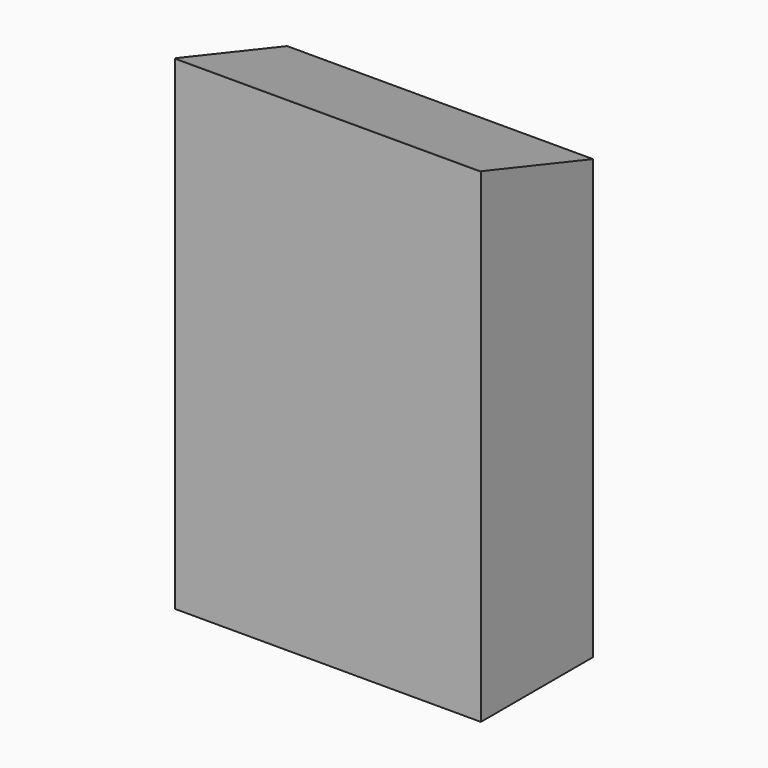
from build123d import *

# Parameters (mm, degrees)
F0_W     = 1200
F0_H     = 1900
F0_W_2   = 350
F0_H_2   = 1675
F0_H_3   = 1673.7432479858
F1_DEPTH = 550
F2_SIZE2 = 545
F2_SIZE  = 180
F3_START = 547
F3_DEPTH = 3


with BuildPart() as f1:
    # F0 (on Front) → F1 (new body)
    with BuildSketch(Plane.XZ):
        with Locations((-575, 925)):
            Rectangle(F0_W, F0_H)
        with Locations((-975, 837.5)):
            Rectangle(F0_W_2, F0_H_2, mode=Mode.SUBTRACT)
        with Locations((-575, 837.5)):
            Rectangle(F0_W_2, F0_H_2, mode=Mode.SUBTRACT)
        with Locations((-175, 836.8716239929)):
            Rectangle(F0_W_2, F0_H_3, mode=Mode.SUBTRACT)
    extrude(amount=F1_DEPTH)

    # F2
    f2_edges = [f1.edges().sort_by_distance(p)[0] for p in [
        (-575, 0, 1875),
    ]]
    f2_side = f1.faces().sort_by_distance((-575, 0, 1852.527795))[0]
    chamfer(f2_edges, length=F2_SIZE, length2=F2_SIZE2, reference=f2_side)

    # F0 (on Front) → F3 (join)
    with BuildSketch(Plane.XZ.offset(F3_START)):
        with Locations((-575, 925)):
            Rectangle(F0_W, F0_H)
        with Locations((-975, 837.5)):
            Rectangle(F0_W_2, F0_H_2, mode=Mode.SUBTRACT)
        with Locations((-575, 837.5)):
            Rectangle(F0_W_2, F0_H_2, mode=Mode.SUBTRACT)
        with Locations((-175, 836.8716239929)):
            Rectangle(F0_W_2, F0_H_3, mode=Mode.SUBTRACT)
        with Locations((-975, 837.5)):
            Rectangle(F0_W_2, F0_H_2)
        with Locations((-575, 837.5)):
            Rectangle(F0_W_2, F0_H_2)
        with Locations((-175, 836.8716239929)):
            Rectangle(F0_W_2, F0_H_3)
    extrude(amount=F3_DEPTH)


solid = f1.part
